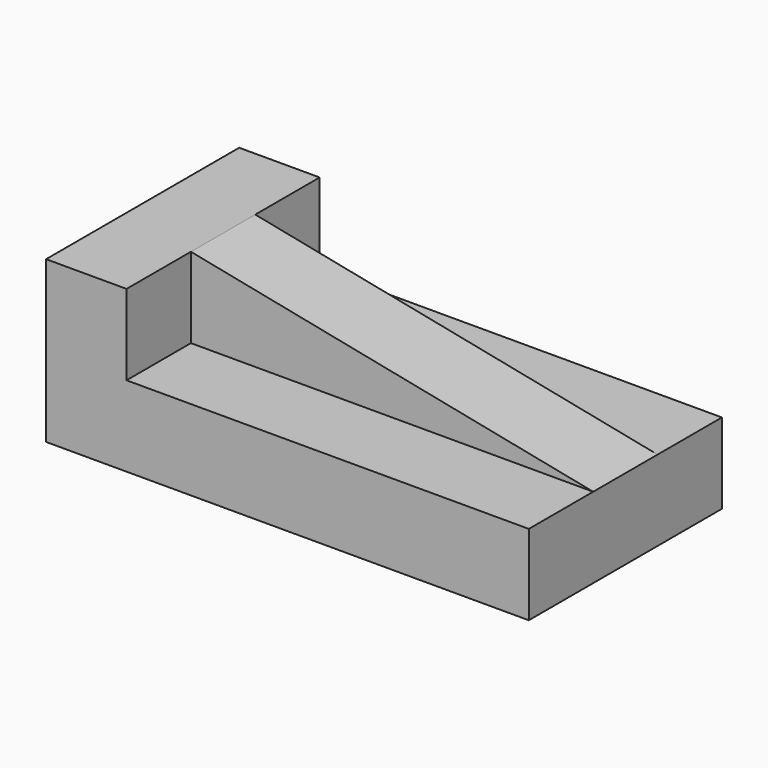
from build123d import *

# Parameters (mm, degrees)
F1_DEPTH = 50.8
F2_DEPTH = 25.4
F3_DEPTH = 25.4


with BuildPart() as f1:
    # F0 (on Front) → F1 (new body)
    with BuildSketch(Plane.XZ):
        Polygon((-61.929984, 25.892838), (-87.329984, 25.892838), (-87.329984, 0.492838), (-87.329984, -24.907162), (-61.929984, -24.907162), (65.070016, -24.907162), (65.070016, 0.492838), (-61.929984, 0.492838), align=None)
    extrude(amount=-F1_DEPTH)

    # F0 (on Front) → F2 (join)
    with BuildSketch(Plane.XZ):
        Polygon((-61.929984, 25.892838), (-87.329984, 25.892838), (-87.329984, 0.492838), (-87.329984, -24.907162), (-61.929984, -24.907162), (65.070016, -24.907162), (65.070016, 0.492838), (-61.929984, 0.492838), align=None)
    extrude(amount=F2_DEPTH)

    # F0 (on Front) → F3 (join)
    with BuildSketch(Plane.XZ):
        Polygon((65.070016, 0.492838), (-61.929984, 25.892838), (-61.929984, 0.492838), align=None)
    extrude(amount=-F3_DEPTH)


solid = f1.part
